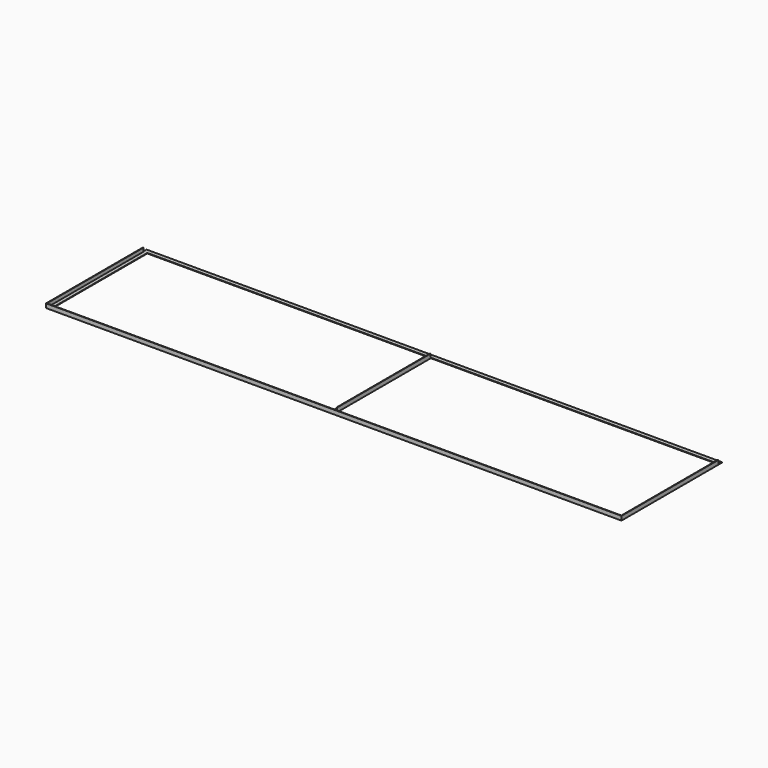
from build123d import *

# Parameters (mm, degrees)
F0_W     = 5500
F0_H     = 1200
F1_DEPTH = 40
F2_W     = 5490
F2_H     = 1190
F3_DEPTH = 35
F4_W     = 2670
F4_H     = 1120
F4_W_2   = 2710
F5_DEPTH = 25
F6_W     = 5
F6_H     = 1120
F7_DEPTH = 35
F8_W     = 5572.749853
F8_H     = 78.416228
F9_DEPTH = 35


with BuildPart() as f1:
    # F0 (on Top) → F1 (new body)
    with BuildSketch(Plane.XY):
        Rectangle(F0_W, F0_H)
    extrude(amount=F1_DEPTH)

    # F2 (on face) → F3 (cut)
    with BuildSketch(Plane.XY.offset(40)):
        Rectangle(F2_W, F2_H)
    extrude(amount=-F3_DEPTH, mode=Mode.SUBTRACT)

    # F4 (on face) → F5 (cut)
    with BuildSketch(Plane.XY.offset(5)):
        with Locations((-1376.259804, 0.967228)):
            Rectangle(F4_W, F4_H)
        with Locations((1353.740196, 0.967228)):
            Rectangle(F4_W_2, F4_H)
    extrude(amount=-F5_DEPTH, mode=Mode.SUBTRACT)

    # F6 (on face) → F7 (join)
    with BuildSketch(Plane.XY.offset(5)):
        with Locations((-3.759804, 0.967228)):
            Rectangle(F6_W, F6_H)
    extrude(amount=F7_DEPTH)

    # F8 (on face) → F9 (cut)
    with BuildSketch(Plane.XY.offset(40)):
        with Locations((36.374926, 598.350167)):
            Rectangle(F8_W, F8_H)
    extrude(amount=-F9_DEPTH, mode=Mode.SUBTRACT)


solid = f1.part
